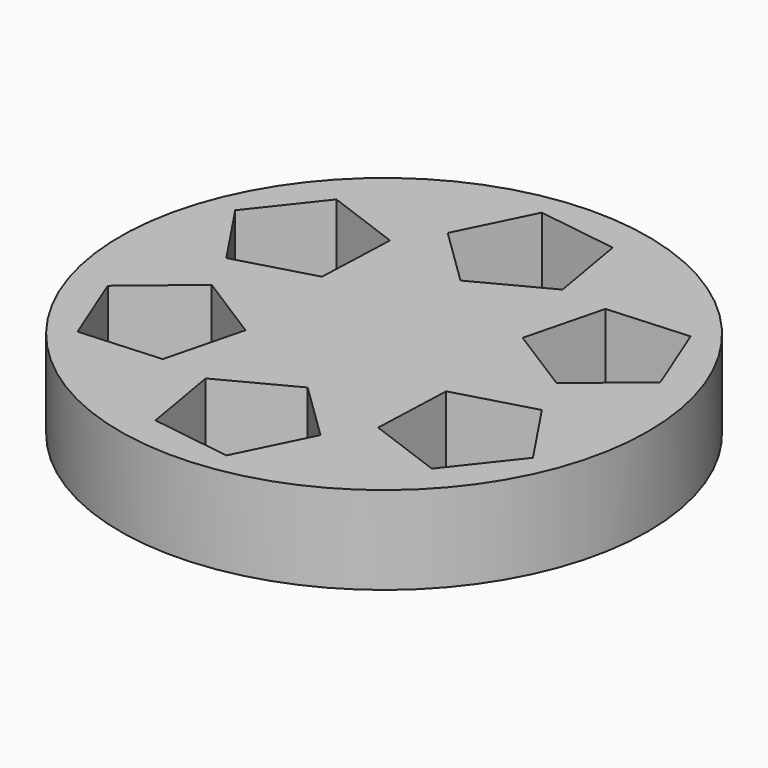
from build123d import *

# Parameters (mm, degrees)
F0_R     = 76.231661
F1_DEPTH = 25.4


with BuildPart() as f1:
    # F0 (on Top) → F1 (new body)
    with BuildSketch(Plane.XY):
        Circle(F0_R)
        Polygon((-54.700378, -42.292298), (-63.378183, -20.53418), (-45.366573, -5.557469), (-25.55698, -18.05947), (-31.325589, -40.762842), align=None, mode=Mode.SUBTRACT)
        Polygon((9.276015, -68.518065), (-13.90597, -65.154207), (-17.870377, -42.067339), (2.861469, -31.162729), (19.638862, -47.510177), align=None, mode=Mode.SUBTRACT)
        Polygon((63.976393, -26.225768), (49.472213, -44.620026), (27.496196, -36.50987), (28.41845, -13.10326), (50.964451, -6.747335), align=None, mode=Mode.SUBTRACT)
        Polygon((-63.976393, 26.225768), (-49.472213, 44.620026), (-27.496196, 36.50987), (-28.41845, 13.10326), (-50.964451, 6.747335), align=None, mode=Mode.SUBTRACT)
        Polygon((-2.861469, 31.162729), (-19.638862, 47.510177), (-9.276015, 68.518065), (13.90597, 65.154207), (17.870377, 42.067339), align=None, mode=Mode.SUBTRACT)
        Polygon((54.700378, 42.292298), (63.378183, 20.53418), (45.366573, 5.557469), (25.55698, 18.05947), (31.325589, 40.762842), align=None, mode=Mode.SUBTRACT)
    extrude(amount=F1_DEPTH)


solid = f1.part
